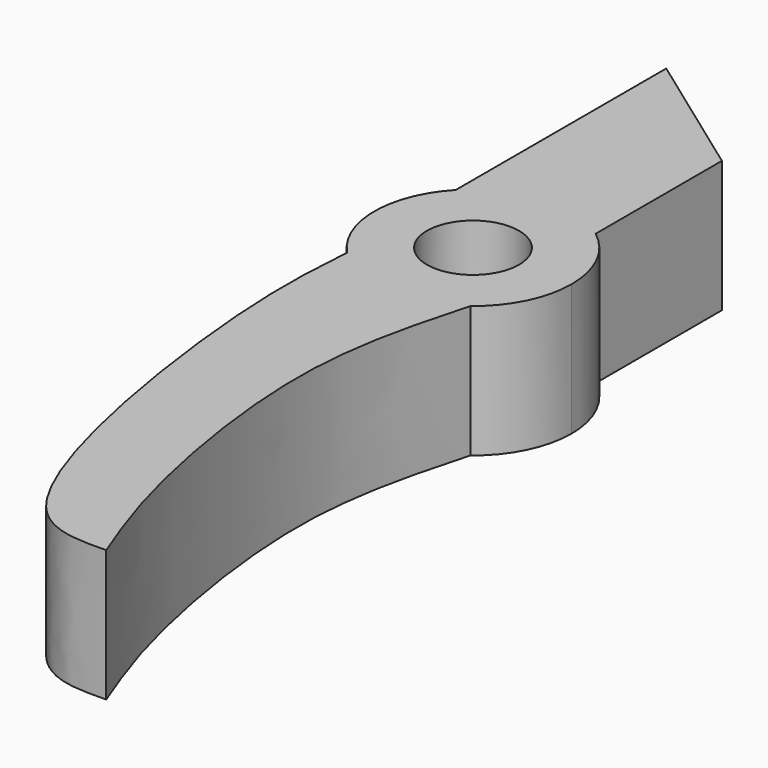
from build123d import *

# Parameters (mm, degrees)
F0_R     = 1.75
F1_DEPTH = 5


with BuildPart() as f1:
    # F0 (on Top) → F1 (new body)
    with BuildSketch(Plane.XY):
        with BuildLine():
            ThreePointArc((2.2804616019, -2.9769102913), (3.3626054636, -1.659935088), (3.75, 0))
            ThreePointArc((3.75, 0), (3.3626054636, 1.659935088), (2.2804616019, 2.9769102913))
            ThreePointArc((2.2804616019, 2.9769102913), (-0.2952794735, 3.7383565952), (-2.7195383981, 2.5819780985))
            ThreePointArc((-2.7195383981, 2.5819780985), (-3.75, 0), (-2.7195383981, -2.5819780985))
            ThreePointArc((-2.7195383981, -2.5819780985), (-0.2952794735, -3.7383565952), (2.2804616019, -2.9769102913))
        make_face()
        Circle(F0_R, mode=Mode.SUBTRACT)
        with BuildLine():
            ThreePointArc((-2.7195383981, 2.5819780985), (-0.2952794735, 3.7383565952), (2.2804616019, 2.9769102913))
            Line((2.2804616019, 2.9769102913), (2.2804616019, 8.9769102913))
            Line((2.2804616019, 8.9769102913), (-2.7195383981, 12.5819780985))
            Line((-2.7195383981, 12.5819780985), (-2.7195383981, 2.5819780985))
        make_face()
        with BuildLine():
            add(Edge.make_bspline(
                [(2.2804616019, -2.9769102913), (1.744056181, -4.936351945), (0.5847824775, -9.1710764538), (2.0646154613, -17.8854011429), (3.1811298564, -20.7804383175), (3.6428596359, -21.9776686281)],
                knots=[0, 0, 0, 0, 0.335568556, 0.7252272022, 1, 1, 1, 1], degree=3))
            ThreePointArc((2.2804616019, -2.9769102913), (-0.2952794735, -3.7383565952), (-2.7195383981, -2.5819780985))
            add(Edge.make_bspline(
                [(-2.7195383981, -2.5819780985), (-2.8253464383, -4.059584694), (-3.0945654883, -7.8192218928), (-0.7683718295, -22.0715467968), (2.5416511763, -22.0011041323), (3.6428596359, -21.9776686281)],
                knots=[0, 0, 0, 0, 0.3017156836, 0.7676884435, 1, 1, 1, 1], degree=3))
        make_face()
    extrude(amount=F1_DEPTH)


solid = f1.part
